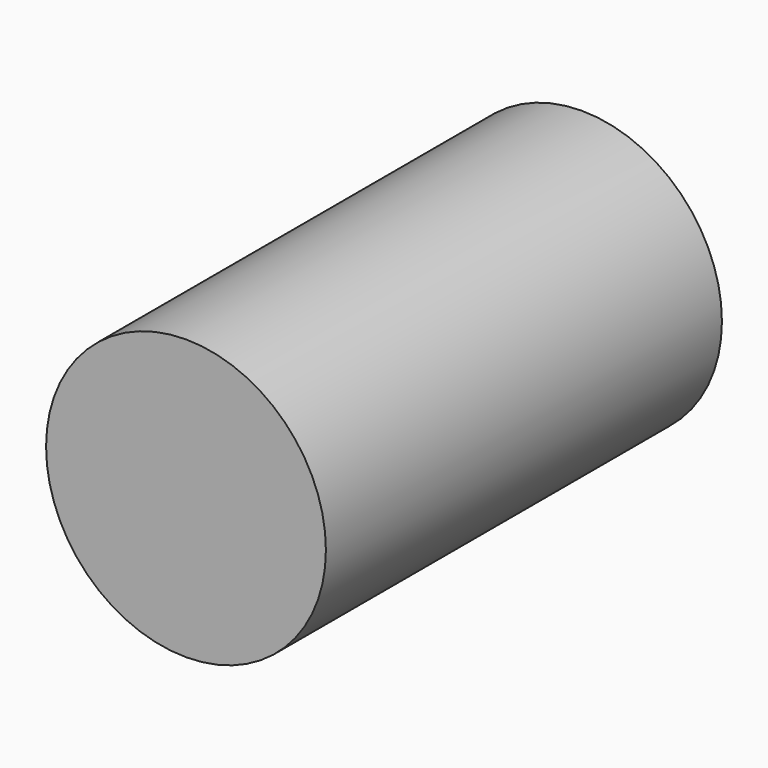
from build123d import *

# Parameters (mm, degrees)
F1_W     = 127
F1_H     = 76.2
F2_DEPTH = 25.4
F0_R     = 38.4068488144
F4_DEPTH = 135.89


with BuildPart() as f2:
    # F1 (on Top) → F2 (new body)
    with BuildSketch(Plane.XY):
        Rectangle(F1_W, F1_H)
    extrude(amount=F2_DEPTH)


with BuildPart() as f4:
    # F0 (on Front) → F4 (new body)
    with BuildSketch(Plane.XZ):
        Circle(F0_R)
    extrude(amount=-F4_DEPTH)


solid = f4.part
